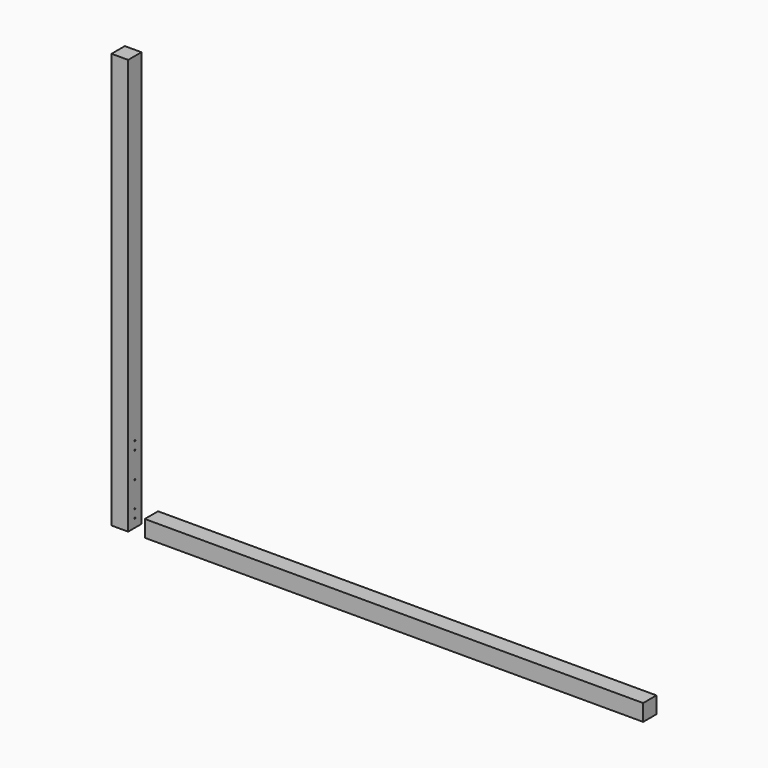
from build123d import *

# Parameters (mm, degrees)
F0_W           = 100
F0_H           = 100
F1_DEPTH       = 2500
F2_W           = 3000
F2_H           = 100
F3_DEPTH       = 100
F5_D           = 8
F5_CSINK_D     = 15
F5_CSINK_ANGLE = 90


with BuildPart() as f1:
    # F0 (on Top) → F1 (new body)
    with BuildSketch(Plane.XY):
        with Locations((-50, 50)):
            Rectangle(F0_W, F0_H)
    extrude(amount=F1_DEPTH)

    # F5 (through all)
    with Locations(Plane(origin=(-100, 0, 0), x_dir=(0, -1, 0), z_dir=(-1, 0, 0))):
        with Locations((-50, 462), (-50, 412), (-50, 256), (-50, 100), (-50, 50)):
            CounterSinkHole(F5_D / 2, F5_CSINK_D / 2, counter_sink_angle=F5_CSINK_ANGLE)


with BuildPart() as f3:
    # F2 (on Top) → F3 (new body)
    with BuildSketch(Plane.XY):
        with Locations((1600, 50)):
            Rectangle(F2_W, F2_H)
    extrude(amount=F3_DEPTH)


solid = Compound([f1.part, f3.part])
